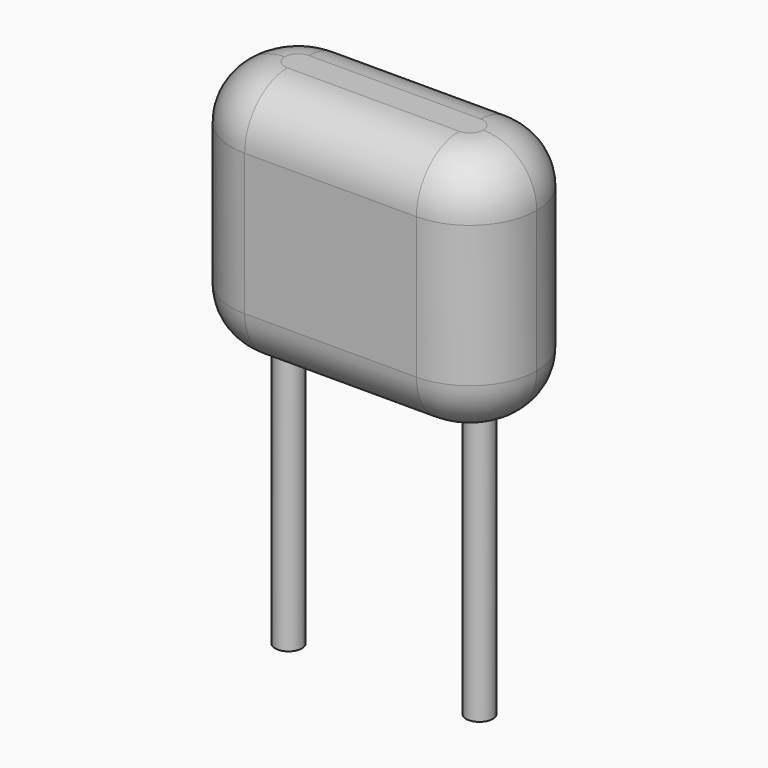
from build123d import *

# Parameters (mm, degrees)
SKETCH_R     = 0.35
PAD_DEPTH    = 8
PAD002_DEPTH = 6.5
FILLET_R     = 1.4
FILLET001_R  = 1.4


with BuildPart() as pad:
    # Sketch → Pad (new body)
    with BuildSketch(Plane.XY.offset(4)):
        Circle(SKETCH_R)
        with Locations((5, 0)):
            Circle(SKETCH_R)
    extrude(amount=-PAD_DEPTH)


with BuildPart() as fillet001:
    # Sketch003 → Pad002 (new body)
    with BuildSketch(Plane.XY.offset(3)):
        with BuildLine():
            Line((0.25, 1.75), (4.75, 1.75))
            ThreePointArc((6.5, 0), (5.987437, 1.237437), (4.75, 1.75))
            ThreePointArc((4.75, -1.75), (5.987437, -1.237437), (6.5, 0))
            Line((4.75, -1.75), (0.25, -1.75))
            ThreePointArc((-1.5, 0), (-0.987437, -1.237437), (0.25, -1.75))
            ThreePointArc((0.25, 1.75), (-0.987437, 1.237437), (-1.5, 0))
        make_face()
    extrude(amount=PAD002_DEPTH)

    # Fillet
    fillet_edges = [fillet001.edges().sort_by_distance(p)[0] for p in [
        (2.5, 1.75, 9.5),
        (-0.987437, 1.237437, 9.5),
        (-0.987437, -1.237437, 9.5),
        (2.5, -1.75, 9.5),
        (5.987437, -1.237437, 9.5),
        (5.987437, 1.237437, 9.5),
    ]]
    fillet(fillet_edges, radius=FILLET_R)

    # Fillet001
    fillet001_edges = [fillet001.edges().sort_by_distance(p)[0] for p in [
        (5.987437, -1.237437, 3),
        (5.987437, 1.237437, 3),
        (2.5, 1.75, 3),
        (2.5, -1.75, 3),
        (-0.987437, -1.237437, 3),
        (-0.987437, 1.237437, 3),
    ]]
    fillet(fillet001_edges, radius=FILLET001_R)


solid = Compound([pad.part, fillet001.part])
